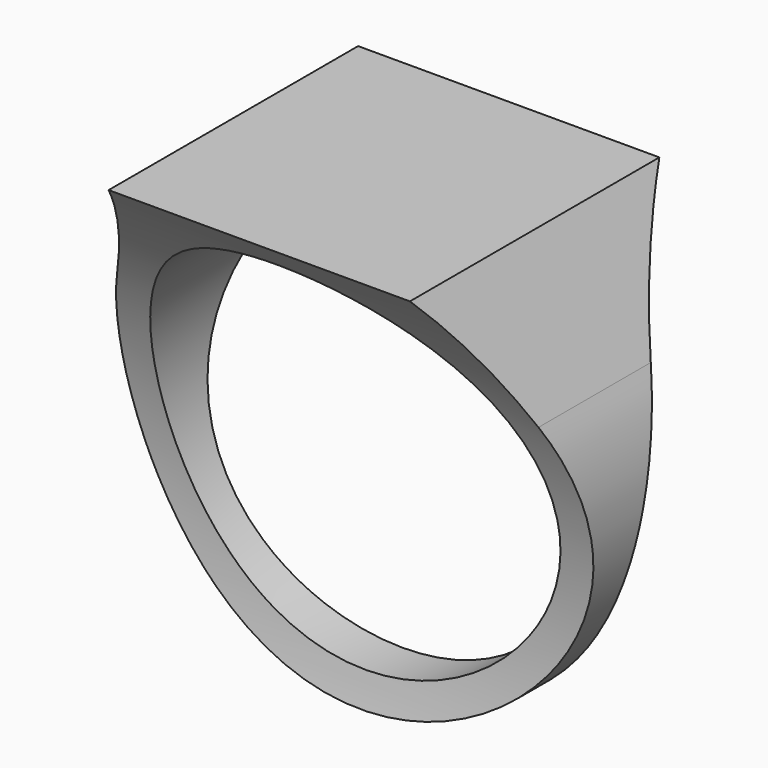
from build123d import *

# Parameters (mm, degrees)
F0_R     = 9.25
F1_DEPTH = 25.4
F3_DEPTH = 12.7


with BuildPart() as f1:
    # F0 (on Front) → F1 (new body)
    with BuildSketch(Plane.XZ):
        with BuildLine():
            Line((-6.943914, 10.433888), (-9.709526, 4.61385))
            ThreePointArc((-9.709526, 4.61385), (0, -10.75), (9.709526, 4.61385))
            Line((9.709526, 4.61385), (6.943914, 10.433888))
            Line((6.943914, 10.433888), (2.587756, 10.433888))
            Line((2.587756, 10.433888), (-2.587756, 10.433888))
            Line((-2.587756, 10.433888), (-6.943914, 10.433888))
        make_face()
        Circle(F0_R, mode=Mode.SUBTRACT)
    extrude(amount=F1_DEPTH)

    # F2 (on Right) → F3 (cut, symmetric)
    with BuildSketch(Plane.YZ):
        with BuildLine():
            ThreePointArc((-12.888511, -10.942341), (-13.328314, 0.984679), (-19.44893, 11.230912))
            Line((-19.44893, 11.230912), (-29.896255, 11.230912))
            Line((-29.896255, 11.230912), (-28.956093, -13.811551))
            Line((-28.956093, -13.811551), (-12.888511, -10.942341))
        make_face()
        with BuildLine():
            Line((6.906466, 11.230912), (-3.540859, 11.230912))
            ThreePointArc((-3.540859, 11.230912), (-9.661475, 0.984679), (-10.101278, -10.942341))
            Line((-10.101278, -10.942341), (5.966304, -13.811551))
            Line((5.966304, -13.811551), (6.906466, 11.230912))
        make_face()
    extrude(amount=F3_DEPTH, both=True, mode=Mode.SUBTRACT)


solid = f1.part
